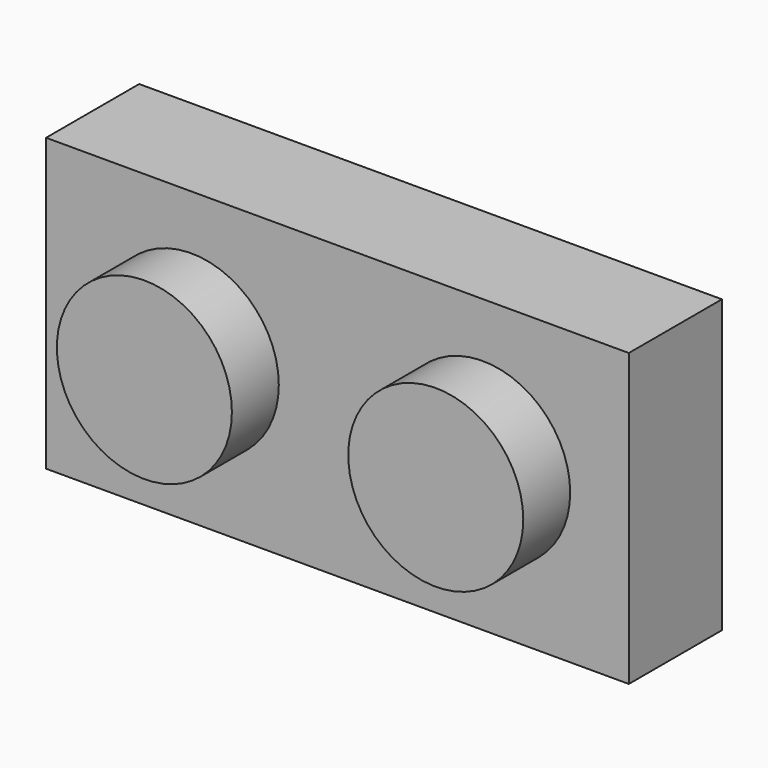
from build123d import *

# Parameters (mm, degrees)
F0_W     = 15.9004
F0_H     = 7.9502
F0_R     = 2.3876
F1_DEPTH = 3.175
F2_DEPTH = 4.7752
F3_T     = -1.6002


with BuildPart() as f1:
    # F0 (on Front) → F1 (new body)
    with BuildSketch(Plane.XZ):
        with Locations((5.9748339464, -24.3789141532)):
            Rectangle(F0_W, F0_H)
        with Locations((1.9870339464, -24.2777410895)):
            Circle(F0_R, mode=Mode.SUBTRACT)
        with Locations((9.9372339464, -24.2777410895)):
            Circle(F0_R, mode=Mode.SUBTRACT)
    extrude(amount=F1_DEPTH)

    # F0 (on Front) → F2 (join)
    with BuildSketch(Plane.XZ):
        with Locations((1.9870339464, -24.2777410895)):
            Circle(F0_R)
        with Locations((9.9372339464, -24.2777410895)):
            Circle(F0_R)
    extrude(amount=F2_DEPTH)

    # F3
    f3_openings = [f1.faces().sort_by_distance(p)[0] for p in [
        (5.974834, 0, -24.378914),
    ]]
    offset(amount=F3_T, openings=f3_openings, kind=Kind.INTERSECTION)


solid = f1.part
